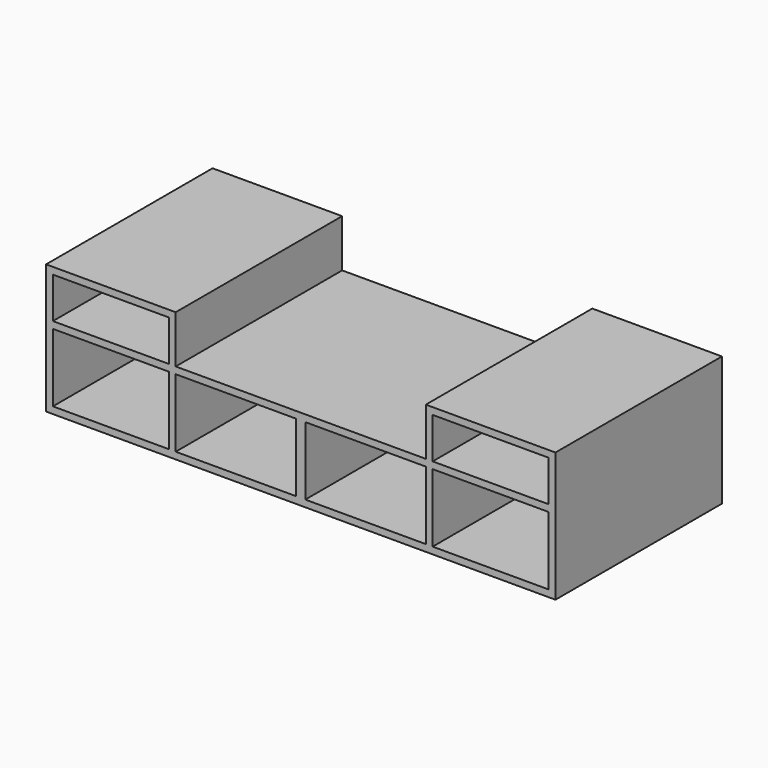
from build123d import *

# Parameters (mm, degrees)
F1_DEPTH = 581.025
F2_W     = 323.85
F2_H     = 114.3
F2_H_2   = 190.5
F2_W_2   = 336.55
F3_DEPTH = 565.15


with BuildPart() as f1:
    # F0 (on Front) → F1 (new body)
    with BuildSketch(Plane.XZ):
        Polygon((0, 361.95), (0, 0), (1422.4, 0), (1422.4, 361.95), (1060.45, 361.95), (1060.45, 228.6), (361.95, 228.6), (361.95, 361.95), align=None)
    extrude(amount=F1_DEPTH)

    # F2 (on face) → F3 (cut)
    with BuildSketch(Plane.XZ.offset(581.025)):
        with Locations((180.975, 285.75)):
            Rectangle(F2_W, F2_H)
        with Locations((180.975, 114.3)):
            Rectangle(F2_W, F2_H_2)
        with Locations((530.225, 114.3)):
            Rectangle(F2_W_2, F2_H_2)
        with Locations((892.175, 114.3)):
            Rectangle(F2_W_2, F2_H_2)
        with Locations((1241.425, 114.3)):
            Rectangle(F2_W, F2_H_2)
        with Locations((1241.425, 285.75)):
            Rectangle(F2_W, F2_H)
    extrude(amount=-F3_DEPTH, mode=Mode.SUBTRACT)


solid = f1.part
